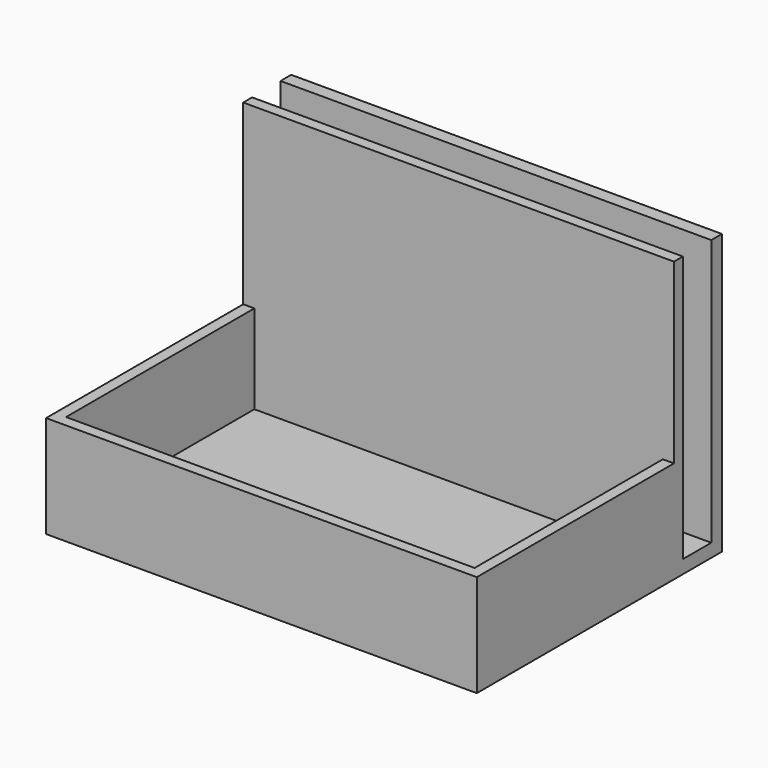
from build123d import *

# Parameters (mm, degrees)
F0_W     = 97
F0_H     = 58
F1_DEPTH = 3
F2_W     = 97
F2_H     = 58
F2_W_2   = 92
F2_H_2   = 53
F3_DEPTH = 20
F4_W     = 97
F4_H     = 3
F5_DEPTH = 11
F6_W     = 97
F6_H     = 2.5
F7_DEPTH = 40
F8_W     = 97
F8_H     = 3
F9_DEPTH = 60


with BuildPart() as f1:
    # F0 (on Top) → F1 (new body)
    with BuildSketch(Plane.XY):
        with Locations((48.5, -29)):
            Rectangle(F0_W, F0_H)
    extrude(amount=F1_DEPTH)

    # F2 (on face) → F3 (join)
    with BuildSketch(Plane.XY.offset(3)):
        with Locations((48.5, -29)):
            Rectangle(F2_W, F2_H)
        with Locations((48.5, -29)):
            Rectangle(F2_W_2, F2_H_2, mode=Mode.SUBTRACT)
    extrude(amount=F3_DEPTH)

    # F4 (on face) → F5 (join)
    with BuildSketch(Plane(origin=(0, 0, 0), x_dir=(-1, 0, 0), z_dir=(0, 1, 0))):
        with Locations((-48.5, 1.5)):
            Rectangle(F4_W, F4_H)
    extrude(amount=F5_DEPTH)

    # F6 (on face) → F7 (join)
    with BuildSketch(Plane.XY.offset(23)):
        with Locations((48.5, -1.25)):
            Rectangle(F6_W, F6_H)
    extrude(amount=F7_DEPTH)

    # F8 (on face) → F9 (join, through all)
    with BuildSketch(Plane.XY.offset(3)):
        with Locations((48.5, 9.5)):
            Rectangle(F8_W, F8_H)
    extrude(amount=F9_DEPTH)


solid = f1.part
